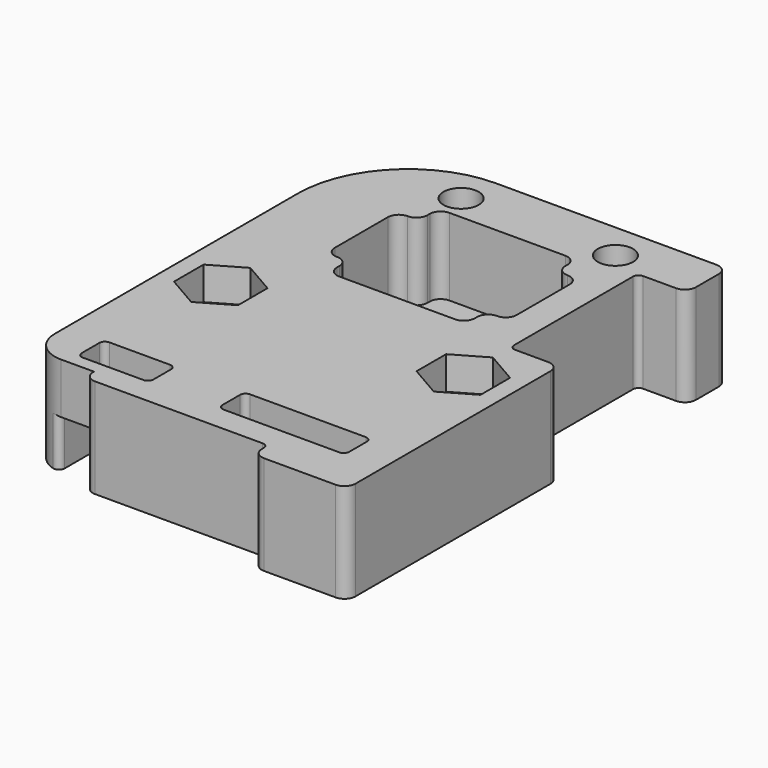
from build123d import *

# Parameters (mm, degrees)
SKETCH_R        = 3.65
SKETCH_R_2      = 1.6
SKETCH_W        = 6.5
SKETCH_H        = 3
SKETCH_W_2      = 11.5
PAD_DEPTH       = 9
POCKET_DEPTH    = 7
POCKET001_DEPTH = 3
SKETCH003_W     = 25.7
SKETCH003_H     = 13
POCKET002_DEPTH = 3
SKETCH004_R     = 1.8
POCKET003_DEPTH = 1.4
FILLET_R        = 1
FILLET001_R     = 0.99
FILLET002_R     = 0.5


with BuildPart() as part:
    # Sketch → Pad (new body)
    with BuildSketch(Plane.XY):
        with BuildLine():
            Line((15.5, -31.35), (15.5, -7.25))
            Line((15.5, -7.25), (11, -7.25))
            Line((11, -7.25), (11, 7.25))
            Line((11, 7.25), (15.5, 7.25))
            Line((15.5, 7.25), (15.5, 11.85))
            Line((15.5, 11.85), (-5.5, 11.85))
            ThreePointArc((-5.5, 11.85), (-12.571068, 8.921068), (-15.5, 1.85))
            Line((-15.5, 1.85), (-15.5, -25.7))
            ThreePointArc((-15.5, -25.7), (-14.679899, -27.679899), (-12.7, -28.5))
            Line((-9.7, -28.5), (-12.7, -28.5))
            Line((-9.7, -29.62), (-9.7, -28.5))
            Line((-9.7, -29.62), (7, -29.62))
            Line((7, -29.62), (7, -31.35))
            Line((7, -31.35), (15.5, -31.35))
        make_face()
        Circle(SKETCH_R, mode=Mode.SUBTRACT)
        with Locations((-11, -12.5)):
            Circle(SKETCH_R_2, mode=Mode.SUBTRACT)
        with Locations((11, -12.5)):
            Circle(SKETCH_R_2, mode=Mode.SUBTRACT)
        with Locations((-6, 8.5)):
            Circle(SKETCH_R_2, mode=Mode.SUBTRACT)
        with Locations((8, 8.5)):
            Circle(SKETCH_R_2, mode=Mode.SUBTRACT)
        with Locations((-8.91, -25.81)):
            Rectangle(SKETCH_W, SKETCH_H, mode=Mode.SUBTRACT)
        with Locations((6.35, -25.81)):
            Rectangle(SKETCH_W_2, SKETCH_H, mode=Mode.SUBTRACT)
    extrude(amount=PAD_DEPTH)

    # Sketch002 (on Face29 of Pad) → Pocket (cut)
    with BuildSketch(Plane.XY.offset(9)):
        Polygon((8.25, -4), (6.25, -4), (6.25, -6.25), (-6.25, -6.25), (-6.25, -4), (-8.25, -4), (-8.25, 4), (-6.25, 4), (-6.25, 6.25), (6.25, 6.25), (6.25, 4), (8.25, 4), align=None)
    extrude(amount=-POCKET_DEPTH, mode=Mode.SUBTRACT)

    # Sketch001 (on Face5 of Pocket) → Pocket001 (cut)
    with BuildSketch(Plane.XY.offset(9)):
        Polygon((-8.1, -14.174316), (-8.1, -10.825684), (-11, -9.151368), (-13.9, -10.825684), (-13.9, -14.174316), (-11, -15.848632), align=None)
        Polygon((13.9, -14.174316), (13.9, -10.825684), (11, -9.151368), (8.1, -10.825684), (8.1, -14.174316), (11, -15.848632), align=None)
    extrude(amount=-POCKET001_DEPTH, mode=Mode.SUBTRACT)

    # Sketch003 (on Face4 of Pocket001) → Pocket002 (cut)
    with BuildSketch(Plane(origin=(0, 0, 0), x_dir=(1, 0, 0), z_dir=(0, 0, -1))):
        with Locations((0, 22)):
            Rectangle(SKETCH003_W, SKETCH003_H)
    extrude(amount=-POCKET002_DEPTH, mode=Mode.SUBTRACT)

    # Sketch004 (on Face58 of Pocket002) → Pocket003 (cut)
    with BuildSketch(Plane(origin=(0, 0, 3), x_dir=(1, 0, 0), z_dir=(0, 0, -1))):
        with Locations((0, 22)):
            Circle(SKETCH004_R)
        with BuildLine():
            Line((1.5, 15.5), (12.85, 15.5))
            Line((12.85, 15.5), (12.85, 20.5))
            Line((12.85, 20.5), (3.5, 20.5))
            ThreePointArc((3.5, 20.5), (2.085786, 19.914214), (1.5, 18.5))
            Line((1.5, 18.5), (1.5, 15.5))
        make_face()
        with BuildLine():
            Line((-1.5, 15.5), (-12.85, 15.5))
            Line((-12.85, 15.5), (-12.85, 20.5))
            Line((-12.85, 20.5), (-3.5, 20.5))
            ThreePointArc((-1.5, 18.5), (-2.085786, 19.914214), (-3.5, 20.5))
            Line((-1.5, 18.5), (-1.5, 15.5))
        make_face()
        with BuildLine():
            Line((12.85, 23.5), (3.5, 23.5))
            ThreePointArc((1.5, 25.5), (2.085786, 24.085786), (3.5, 23.5))
            Line((1.5, 25.5), (1.5, 28.5))
            Line((1.5, 28.5), (12.85, 28.5))
            Line((12.85, 28.5), (12.85, 23.5))
        make_face()
        with BuildLine():
            Line((-12.85, 23.5), (-3.5, 23.5))
            ThreePointArc((-3.5, 23.5), (-2.085786, 24.085786), (-1.5, 25.5))
            Line((-1.5, 25.5), (-1.5, 28.5))
            Line((-1.5, 28.5), (-12.85, 28.5))
            Line((-12.85, 28.5), (-12.85, 23.5))
        make_face()
    extrude(amount=-POCKET003_DEPTH, mode=Mode.SUBTRACT)

    # Fillet
    fillet_edges = [part.edges().sort_by_distance(p)[0] for p in [
        (15.5, -31.35, 4.5),
        (7, -31.35, 4.5),
        (-9.7, -29.62, 4.5),
        (15.5, -7.25, 4.5),
        (15.5, 7.25, 4.5),
        (15.5, 11.85, 4.5),
    ]]
    fillet(fillet_edges, radius=FILLET_R)

    # Fillet001
    fillet001_edges = [part.edges().sort_by_distance(p)[0] for p in [
        (-8.25, 4, 5.5),
        (-6.25, 4, 5.5),
        (-6.25, 6.25, 5.5),
        (6.25, 4, 5.5),
        (-6.25, -4, 5.5),
        (-8.25, -4, 5.5),
        (-6.25, -6.25, 5.5),
        (8.25, -4, 5.5),
        (6.25, -4, 5.5),
        (6.25, -6.25, 5.5),
        (8.25, 4, 5.5),
        (6.25, 6.25, 5.5),
    ]]
    fillet(fillet001_edges, radius=FILLET001_R)

    # Fillet002
    fillet002_edges = [part.edges().sort_by_distance(p)[0] for p in [
        (11, 7.25, 4.5),
        (11, -7.25, 4.5),
        (7, -29.62, 4.5),
        (12.85, -20.5, 3.7),
        (-1.8, -22, 4.4),
        (12.85, -23.5, 3.7),
        (1.892549, -24.31, 3.7),
        (-12.85, -20.5, 3.7),
        (-12.85, -23.5, 3.7),
        (-12.16, -24.31, 6.7),
        (0.6, -24.31, 6),
        (12.1, -27.31, 6.7),
        (-5.66, -27.31, 6.7),
        (12.1, -24.31, 6.7),
        (-5.66, -24.31, 6.7),
        (12.85, -15.5, 3.7),
        (12.85, -15.5, 1.5),
        (-12.16, -27.31, 6.7),
        (0.6, -27.31, 6),
        (9.4, -12.5, 0),
        (-12.6, -12.5, 0),
        (6.4, 8.5, 0),
        (-7.6, 8.5, 0),
        (-12.85, -28.495979, 1.5),
    ]]
    fillet(fillet002_edges, radius=FILLET002_R)


solid = part.part
